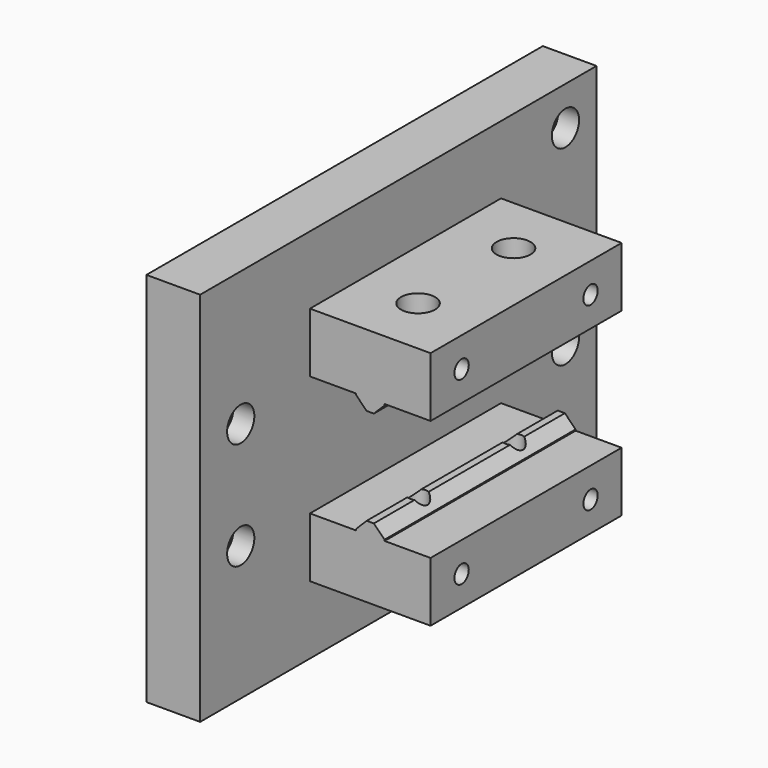
from build123d import *

# Parameters (mm, degrees)
F1_W      = 9
F1_H      = 83
F2_DEPTH  = 63
F3_R      = 2.85
F4_DEPTH  = 3.5
F5_R      = 1.6
F6_DEPTH  = 25
F7_W      = 40
F7_H      = 10
F8_DEPTH  = 20.2
F9_W      = 4.8
F9_H      = 40
F10_DEPTH = 2
F11_SIZE  = 1.8
F12_R     = 1.6
F13_DEPTH = 25
F14_W     = 4.8
F14_H     = 40
F15_DEPTH = 2
F16_SIZE  = 1.8
F17_R     = 1.6
F18_DEPTH = 25
F19_R     = 2.85
F20_DEPTH = 3.5
F21_R     = 2.85
F22_DEPTH = 3.5
F23_R     = 1.5
F24_DEPTH = 10


with BuildPart() as f2:
    # F1 (on Top) → F2 (new body)
    with BuildSketch(Plane.XY):
        with Locations((4.5, 41.5)):
            Rectangle(F1_W, F1_H)
        with Locations((4.5, 41.5)):
            Rectangle(F1_W, F1_H)
    extrude(amount=F2_DEPTH)

    # F3 (on face) → F4 (cut)
    with BuildSketch(Plane.YZ.offset(9)):
        with Locations((8.5, 40.5)):
            Circle(F3_R)
        with Locations((8.5, 22.5)):
            Circle(F3_R)
        with Locations((76.5, 56.5)):
            Circle(F3_R)
        with Locations((76.5, 38.5)):
            Circle(F3_R)
        with Locations((76.5, 24.5)):
            Circle(F3_R)
        with Locations((76.5, 6.5)):
            Circle(F3_R)
        with Locations((8.5, 40.5)):
            Circle(F3_R)
    extrude(amount=-F4_DEPTH, mode=Mode.SUBTRACT)

    # F5 (on face) → F6 (cut)
    with BuildSketch(Plane.YZ.offset(9)):
        with Locations((8.5, 40.5)):
            Circle(F5_R)
        with Locations((8.5, 22.5)):
            Circle(F5_R)
        with Locations((76.5, 24.5)):
            Circle(F5_R)
        with Locations((76.5, 38.5)):
            Circle(F5_R)
        with Locations((76.5, 56.5)):
            Circle(F5_R)
        with Locations((76.5, 6.5)):
            Circle(F5_R)
    extrude(amount=-F6_DEPTH, mode=Mode.SUBTRACT)

    # F7 (on face) → F8 (join)
    with BuildSketch(Plane.YZ.offset(9)):
        with Locations((43, 16.4)):
            Rectangle(F7_W, F7_H)
        with Locations((43, 46.6)):
            Rectangle(F7_W, F7_H)
    extrude(amount=F8_DEPTH)

    # F9 (on face) → F10 (join)
    with BuildSketch(Plane(origin=(0, 0, 41.6), x_dir=(1, 0, 0), z_dir=(0, 0, -1))):
        with Locations((19.1, -43)):
            Rectangle(F9_W, F9_H)
    extrude(amount=F10_DEPTH)

    # F11
    f11_edges = [f2.edges().sort_by_distance(p)[0] for p in [
        (21.5, 43, 39.6),
        (16.7, 43, 39.6),
    ]]
    chamfer(f11_edges, length=F11_SIZE)

    # F12 (on face) → F13 (cut)
    with BuildSketch(Plane(origin=(0, 0, 39.6), x_dir=(1, 0, 0), z_dir=(0, 0, -1))):
        with Locations((19.1, -33)):
            Circle(F12_R)
        with Locations((19.1, -53)):
            Circle(F12_R)
    extrude(amount=-F13_DEPTH, mode=Mode.SUBTRACT)

    # F14 (on face) → F15 (join)
    with BuildSketch(Plane.XY.offset(21.4)):
        with Locations((19.1, 43)):
            Rectangle(F14_W, F14_H)
    extrude(amount=F15_DEPTH)

    # F16
    f16_edges = [f2.edges().sort_by_distance(p)[0] for p in [
        (21.5, 43, 23.4),
        (16.7, 43, 23.4),
    ]]
    chamfer(f16_edges, length=F16_SIZE)

    # F17 (on face) → F18 (cut)
    with BuildSketch(Plane.XY.offset(23.4)):
        with Locations((19.1, 33)):
            Circle(F17_R)
        with Locations((19.1, 53)):
            Circle(F17_R)
    extrude(amount=-F18_DEPTH, mode=Mode.SUBTRACT)

    # F19 (on face) → F20 (cut)
    with BuildSketch(Plane(origin=(0, 0, 11.4), x_dir=(1, 0, 0), z_dir=(0, 0, -1))):
        with Locations((19.1, -33)):
            Circle(F19_R)
        with Locations((19.1, -53)):
            Circle(F19_R)
    extrude(amount=-F20_DEPTH, mode=Mode.SUBTRACT)

    # F21 (on face) → F22 (cut)
    with BuildSketch(Plane.XY.offset(51.6)):
        with Locations((19.1, 53)):
            Circle(F21_R)
        with Locations((19.1, 33)):
            Circle(F21_R)
    extrude(amount=-F22_DEPTH, mode=Mode.SUBTRACT)

    # F23 (on face) → F24 (cut)
    with BuildSketch(Plane.YZ.offset(29.2)):
        with Locations((56.5, 16.4)):
            Circle(F23_R)
        with Locations((29.5, 16.4)):
            Circle(F23_R)
        with Locations((29.5, 46.6)):
            Circle(F23_R)
        with Locations((56.5, 46.6)):
            Circle(F23_R)
    extrude(amount=-F24_DEPTH, mode=Mode.SUBTRACT)


solid = f2.part
